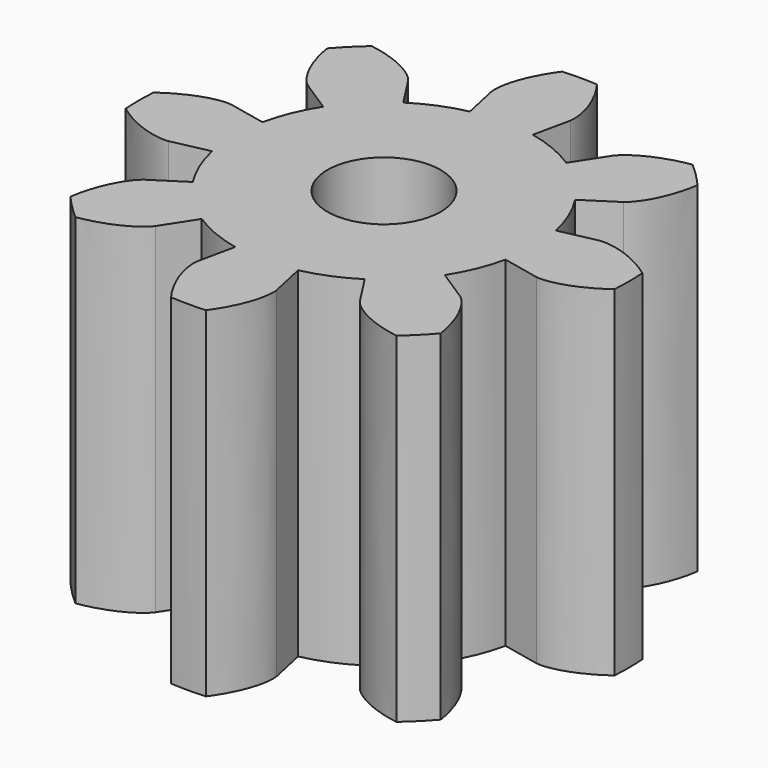
from build123d import *

# Parameters (mm, degrees)
F2_DEPTH = 9
F3_COUNT = 8
F4_ANGLE = -12.10395829
F5_R     = 1.5
F6_DEPTH = 9


with BuildPart() as f2:
    # F0 (on Top) → F2 (new body)
    with BuildSketch(Plane.XY):
        with BuildLine():
            ThreePointArc((3.6214284351, 1.6281359465), (-3.8823170623, -0.8325772028), (3.9705881895, 0))
            ThreePointArc((3.9705881895, 0), (3.8823170623, 0.8325772028), (3.6214284351, 1.6281359465))
        make_face()
        with BuildLine():
            ThreePointArc((3.6214284351, 1.6281359465), (3.8823170623, 0.8325772028), (3.9705881895, 0))
            Line((3.9705881895, 0), (4.974843229, 0))
            add(Edge.make_bspline(
                [(4.974843229, 0), (4.9801466314, 0.0001925881), (4.9946353816, 0.0007187334), (5.0515091084, 0.007901301), (5.1389720703, 0.0270949003), (5.2611962602, 0.0647089906), (5.4129160811, 0.1262103484), (5.5914935571, 0.2170132856), (5.7925834332, 0.3418264578), (6.0112959876, 0.5056653333), (6.2248108983, 0.6935311725), (6.3607565303, 0.8389400469), (6.4217785849, 0.9054272978)],
                knots=[0, 0, 0, 0, 0.0334564641, 0.0914021433, 0.1662094232, 0.2547225024, 0.3550868593, 0.4660438076, 0.5866667132, 0.7162364887, 0.8541740412, 0.9672633179, 0.9672633179, 0.9672633179, 0.9672633179], degree=3))
            ThreePointArc((6.4217785849, 0.9054272978), (6.3411178656, 1.3598760973), (6.2283392589, 1.8074370975))
            add(Edge.make_bspline(
                [(4.5373727694, 2.0399297793), (4.5422887796, 2.041928782), (4.5557191847, 2.0473900024), (4.6105368383, 2.0641600629), (4.698178928, 2.0825183873), (4.8250787688, 2.0983298636), (4.9886754487, 2.1044492916), (5.1887830997, 2.0948567755), (5.4233693532, 2.0634759551), (5.6900310606, 2.0037273789), (5.961804421, 1.9199333981), (6.1454202376, 1.843055654), (6.2283392589, 1.8074370975)],
                knots=[0, 0, 0, 0, 0.0334564641, 0.0914021433, 0.1662094232, 0.2547225024, 0.3550868593, 0.4660438076, 0.5866667132, 0.7162364887, 0.8541740412, 0.9672633179, 0.9672633179, 0.9672633179, 0.9672633179], degree=3))
            Line((4.5373727694, 2.0399297793), (3.6214284351, 1.6281359465))
        make_face()
    extrude(amount=F2_DEPTH)

    # F3: F2 ×8 about axis
    f3_axis = Axis((0, 0, 12.9622193053), (0, 0, 1))


with BuildPart() as f2_1:
    add(f2.part)
    for i in range(1, F3_COUNT):
        add(f2.part.rotate(f3_axis, i * 360 / F3_COUNT))


with BuildPart() as f2_2:
    # F4: moved
    add(f2_1.part.rotate(Axis((0, 0, 12.9622193053), (0, 0, 1)), F4_ANGLE))

    # F5 (on face) → F6 (cut, through all)
    with BuildSketch(Plane.XY.offset(9)):
        Circle(F5_R)
    extrude(amount=-F6_DEPTH, mode=Mode.SUBTRACT)


solid = f2_2.part
